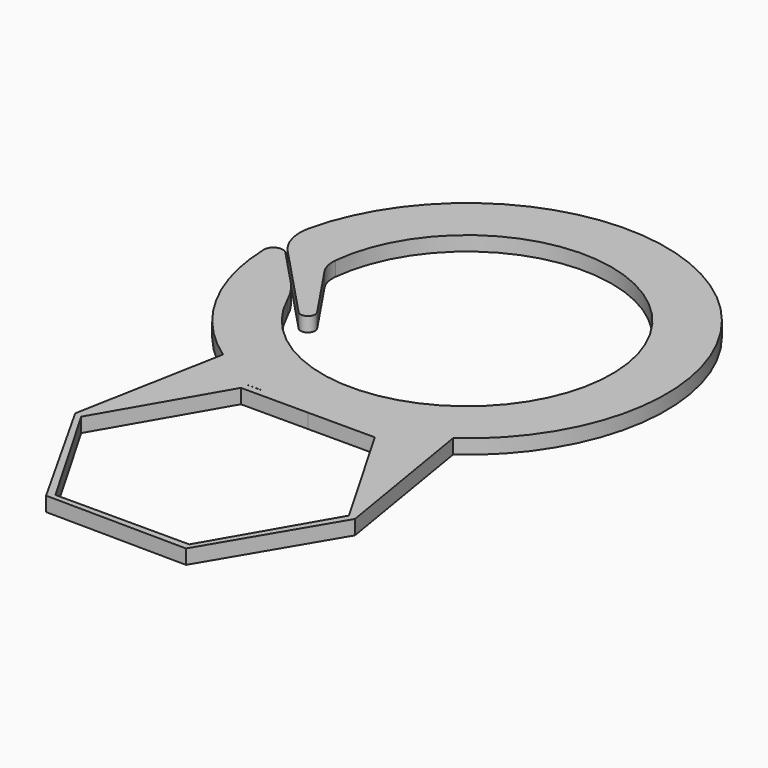
from build123d import *

# Parameters (mm, degrees)
PAD_DEPTH    = 2
PAD001_DEPTH = 2
PAD002_DEPTH = 2


with BuildPart() as part:
    # Sketch → Pad (new body)
    with BuildSketch(Plane.XY):
        with BuildLine():
            ThreePointArc((-27.489858, -0.746794), (27.360019, -2.771163), (-26.781824, 6.243707))
            ThreePointArc((-26.781824, 6.243707), (-26.728683, 3.219003), (-25.249794, 0.579962))
            Line((-25.249794, 0.579962), (-15.435404, -9.800129))
            ThreePointArc((-15.435404, -9.800129), (-14.079498, -9.894335), (-13.873578, -8.55085))
            Line((-13.873578, -8.55085), (-19.209537, -0.614914))
            ThreePointArc((-19.887258, 2.120607), (-19.789586, 0.693092), (-19.209537, -0.614914))
            ThreePointArc((-18.249364, -8.182952), (19.751995, 3.139854), (-19.887258, 2.120607))
            ThreePointArc((-18.249364, -8.182952), (-19.207091, -6.452486), (-20.440588, -4.906446))
            Line((-20.440588, -4.906446), (-25.249794, 0.179962))
            ThreePointArc((-25.249794, 0.179962), (-26.688775, 0.487518), (-27.489858, -0.746794))
        make_face()
    extrude(amount=PAD_DEPTH)

    # Sketch001 → Pad001 (join)
    with BuildSketch(Plane.XY):
        Polygon((19.498872, -43.731184), (9.931054, -26.739808), (-9.567819, -26.530094), (-19.498872, -43.311756), (-9.931054, -60.303132), (9.567819, -60.512846), align=None)
        Polygon((18.5, -43.52147), (9.25, -27.5), (-9.25, -27.5), (-18.5, -43.52147), (-9.25, -59.54294), (9.25, -59.54294), align=None, mode=Mode.SUBTRACT)
    extrude(amount=PAD001_DEPTH)

    # Sketch002 → Pad002 (join)
    with BuildSketch(Plane.XY):
        Polygon((-15.619859, -22.616802), (-19.498872, -43.311756), (-9.567819, -26.530094), (-6.937376, -26.530094), align=None)
        Polygon((19.498872, -43.731184), (15.971505, -22.386626), (6.569976, -26.703659), (9.931054, -26.739808), align=None)
    extrude(amount=PAD002_DEPTH)


solid = part.part
